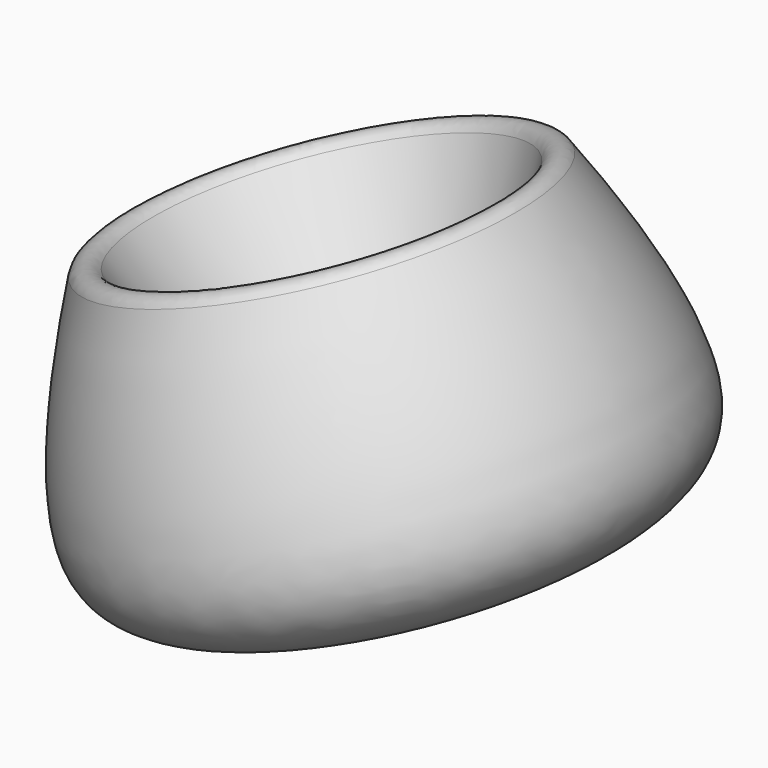
from build123d import *

# Parameters (mm, degrees)
F2_R = 5.08


with BuildPart() as f1:
    # F0 (on Front) → F1 (revolve)
    with BuildSketch(Plane.XZ):
        with BuildLine():
            Line((-0.029532092, 73.4552659154), (-17.1343609691, -55.4011017084))
            add(Edge.make_bspline(
                [(-17.1343609691, -55.4011017084), (19.4053897862, -41.5960160126), (92.7765659681, -13.8756469937), (1.3240416012, 70.5434411604), (-0.0218300503, 73.4361338765), (-0.029532092, 73.4552659154)],
                knots=[0, 0, 0, 0, 0.4843002855, 0.9724664464, 0.9760261411, 0.9760261411, 0.9760261411, 0.9760261411], degree=3))
        make_face()
    revolve(axis=Axis((-44.8349127546, 0, -0.7139369845), (0.3181107339, 0, -0.9480535644)))

    # F2
    f2_edges = [f1.edges().sort_by_distance(p)[0] for p in [
        (-125.308971, 0, 31.418892),
        (-33.943413, 0, -61.041226),
        (-8.581947, 0, 9.027082),
    ]]
    fillet(f2_edges, radius=F2_R)


solid = f1.part
